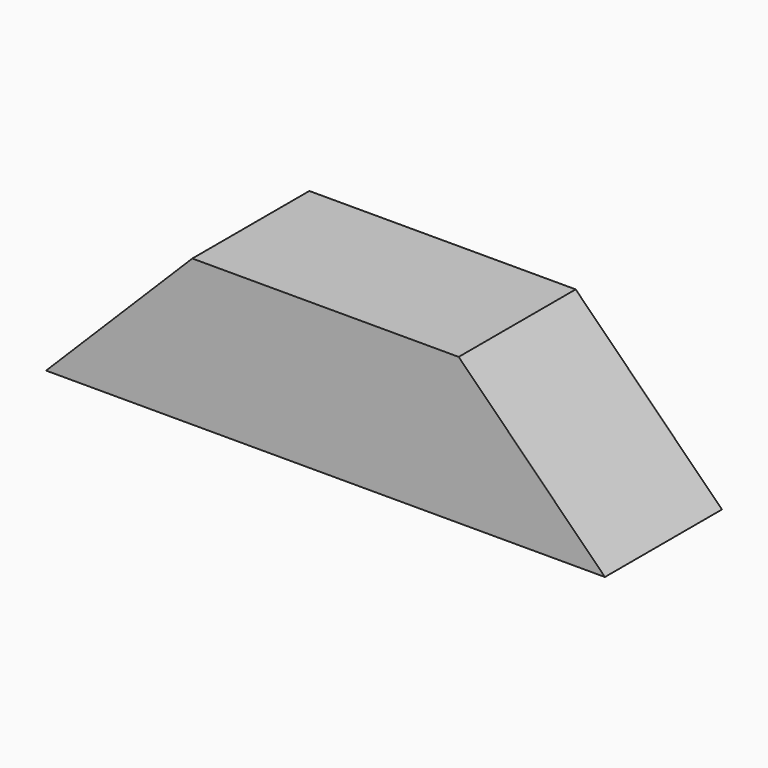
from build123d import *

# Parameters (mm, degrees)
F0_W     = 88.9
F0_H     = 88.9
F1_DEPTH = 339.725
F3_DEPTH = 88.901
F5_DEPTH = 88.901


with BuildPart() as f1:
    # F0 (on Right) → F1 (new body)
    with BuildSketch(Plane.YZ):
        with Locations((1.808545, 0)):
            Rectangle(F0_W, F0_H)
    extrude(amount=F1_DEPTH)

    # F2 (on face) → F3 (cut, through all)
    with BuildSketch(Plane.XZ.offset(42.641455)):
        Polygon((0, 44.45), (0, -44.45), (88.9, 44.45), align=None)
    extrude(amount=-F3_DEPTH, mode=Mode.SUBTRACT)

    # F4 (on face) → F5 (cut, through all)
    with BuildSketch(Plane.XZ.offset(42.641455)):
        Polygon((250.825, 44.45), (339.725, -44.45), (339.725, 44.45), align=None)
    extrude(amount=-F5_DEPTH, mode=Mode.SUBTRACT)


solid = f1.part
